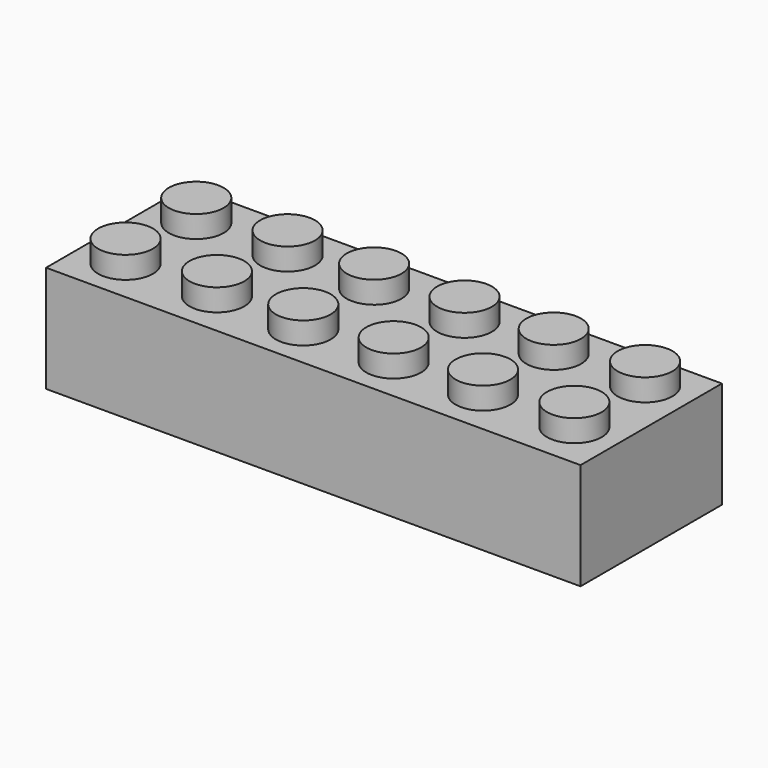
from build123d import *

# Parameters (mm, degrees)
F0_W     = 47.7012
F0_H     = 15.7734
F1_DEPTH = 9.525
F2_R     = 2.44475
F3_DEPTH = 1.9685
F4_W     = 45.1358
F4_H     = 12.7762
F5_DEPTH = 8.382
F6_R     = 3.3528
F7_DEPTH = 8.382
F8_R     = 2.54
F9_DEPTH = 8.382


with BuildPart() as f1:
    # F0 (on Top) → F1 (new body)
    with BuildSketch(Plane.XY):
        Rectangle(F0_W, F0_H)
    extrude(amount=F1_DEPTH)

    # F2 (on face) → F3 (join)
    with BuildSketch(Plane.XY.offset(9.525)):
        with Locations((3.996174, -3.91475)):
            Circle(F2_R)
        with Locations((-4.042828, -3.954311)):
            Circle(F2_R)
        with Locations((4.010369, 3.971937)):
            Circle(F2_R)
        with Locations((11.886038, -3.809133)):
            Circle(F2_R)
        with Locations((-11.865584, -3.809133)):
            Circle(F2_R)
        with Locations((-4.028634, 3.932459)):
            Circle(F2_R)
        with Locations((11.886038, 4.077567)):
            Circle(F2_R)
        with Locations((-11.865584, 4.077567)):
            Circle(F2_R)
        with Locations((-19.903373, -3.954311)):
            Circle(F2_R)
        with Locations((19.923827, -3.663954)):
            Circle(F2_R)
        with Locations((19.923827, 4.222746)):
            Circle(F2_R)
        with Locations((-19.903373, 3.932389)):
            Circle(F2_R)
    extrude(amount=F3_DEPTH)

    # F4 (on face) → F5 (cut)
    with BuildSketch(Plane(origin=(0, 0, 0), x_dir=(1, 0, 0), z_dir=(0, 0, -1))):
        Rectangle(F4_W, F4_H)
    extrude(amount=-F5_DEPTH, mode=Mode.SUBTRACT)

    # F6 (on face) → F7 (join)
    with BuildSketch(Plane(origin=(0, 0, 8.382), x_dir=(1, 0, 0), z_dir=(0, 0, -1))):
        Circle(F6_R)
        with Locations((-16.3957, 0)):
            Circle(F6_R)
        with Locations((-8.2677, 0)):
            Circle(F6_R)
        with Locations((8.2677, 0)):
            Circle(F6_R)
        with Locations((16.3957, 0)):
            Circle(F6_R)
    extrude(amount=F7_DEPTH)

    # F8 (on face) → F9 (cut)
    with BuildSketch(Plane(origin=(0, 0, 0), x_dir=(1, 0, 0), z_dir=(0, 0, -1))):
        with Locations((-16.3957, 0)):
            Circle(F8_R)
        with Locations((-8.2677, 0)):
            Circle(F8_R)
        Circle(F8_R)
        with Locations((8.2677, 0)):
            Circle(F8_R)
        with Locations((16.3957, 0)):
            Circle(F8_R)
    extrude(amount=-F9_DEPTH, mode=Mode.SUBTRACT)


solid = f1.part
